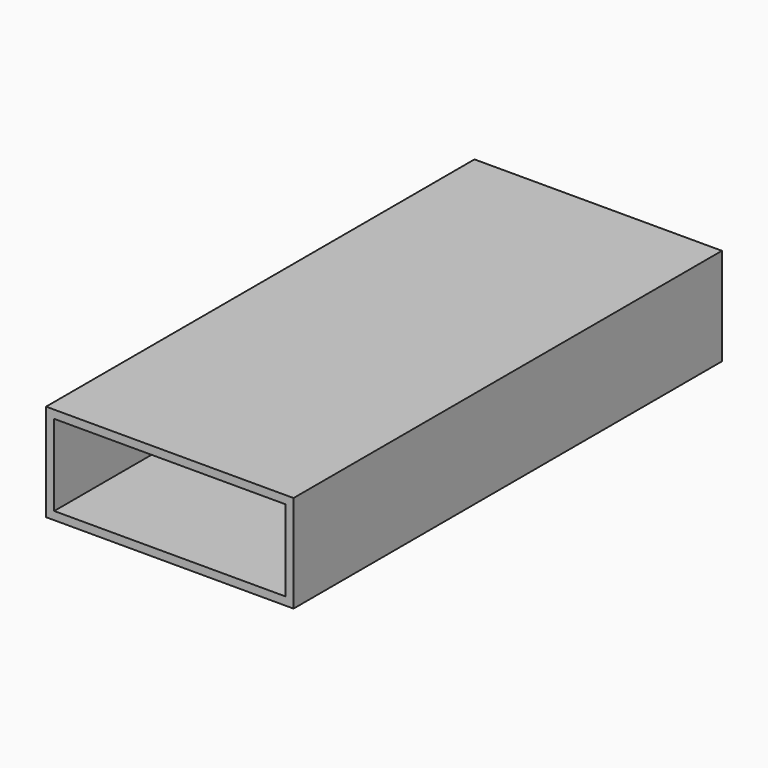
from build123d import *

# Parameters (mm, degrees)
F0_W     = 15.25
F0_H     = 6
F0_W_2   = 14.25
F0_H_2   = 5
F1_DEPTH = 32.5
F2_W     = 15.25
F2_H     = 6
F3_DEPTH = 0.5
F4_W     = 4
F4_H     = 3
F5_DEPTH = 33.001


with BuildPart() as f1:
    # F0 (on Front) → F1 (new body)
    with BuildSketch(Plane.XZ):
        Rectangle(F0_W, F0_H)
        Rectangle(F0_W_2, F0_H_2, mode=Mode.SUBTRACT)
    extrude(amount=F1_DEPTH)

    # F2 (on face) → F3 (join)
    with BuildSketch(Plane(origin=(0, 0, 0), x_dir=(-1, 0, 0), z_dir=(0, 1, 0))):
        Rectangle(F2_W, F2_H)
    extrude(amount=F3_DEPTH)

    # F4 (on face) → F5 (cut, through all)
    with BuildSketch(Plane(origin=(0, 0.5, 0), x_dir=(-1, 0, 0), z_dir=(0, 1, 0))):
        Rectangle(F4_W, F4_H)
    extrude(amount=-F5_DEPTH, mode=Mode.SUBTRACT)


solid = f1.part
